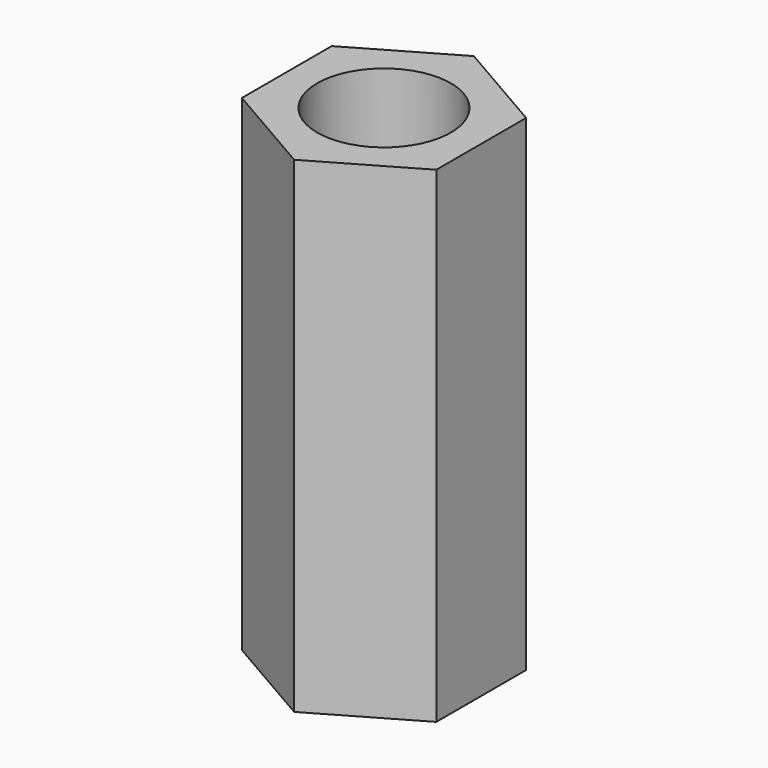
from build123d import *

# Parameters (mm, degrees)
F1_DEPTH = 40
F3_D     = 11
F3_DEPTH = 10
F3_TIP   = 3.3047334047
F4_D     = 8.8


with BuildPart() as f1:
    # F0 (on Top) → F1 (new body)
    with BuildSketch(Plane.XY):
        Polygon((8, -4.6188021535), (8, 4.6188021535), (0, 9.237604307), (-8, 4.6188021535), (-8, -4.6188021535), (0, -9.237604307), align=None)
    extrude(amount=F1_DEPTH)

    # F3
    with Locations(Plane.XY.offset(40)):
        with Locations((0, 0)):
            Hole(F3_D / 2, depth=F3_DEPTH)
            with Locations((0, 0, -(F3_DEPTH + F3_TIP / 2))):  # 118° drill point
                Cone(0, F3_D / 2, F3_TIP, mode=Mode.SUBTRACT)

    # F4 (through all)
    with Locations(Plane.XY.offset(40)):
        with Locations((0, 0)):
            Hole(F4_D / 2)


solid = f1.part
